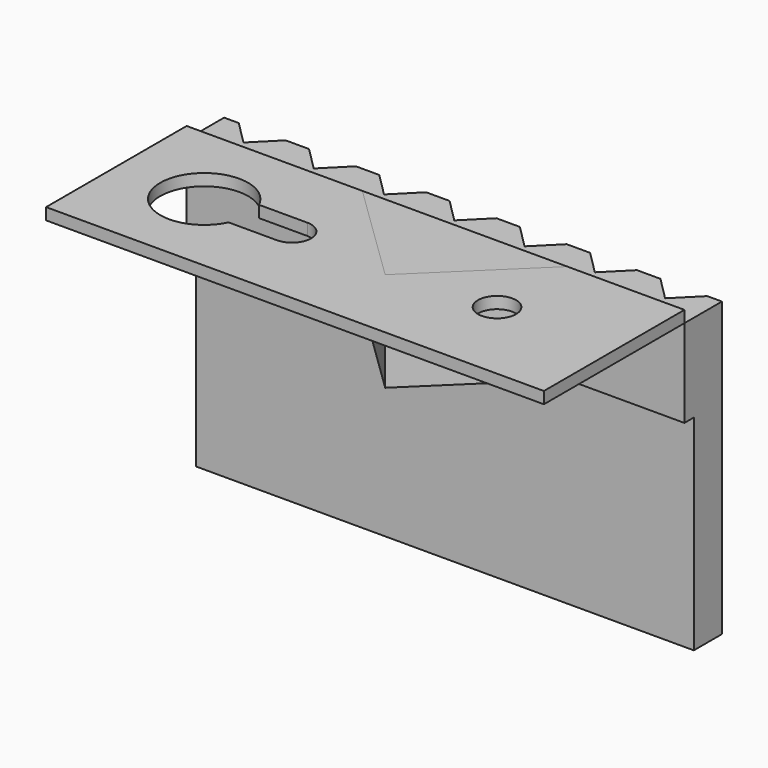
from build123d import *

# Parameters (mm, degrees)
F0_R      = 3.25
F1_DEPTH  = 2
F3_DEPTH  = 15
F4_DEPTH  = 2
F5_DEPTH  = 2
F7_W      = 85
F7_H      = 35
F6_W      = 85
F6_H      = 15
F8_DEPTH  = 2
F10_DEPTH = 50


with BuildPart() as f1:
    # F0 (on Top) → F1 (new body)
    with BuildSketch(Plane.XY):
        Polygon((-12.5, 15), (-42.5, 15), (-42.5, -15), (42.5, -15), (42.5, 15), (22.5, 15), (5, -2), align=None)
        with BuildLine():
            ThreePointArc((-20.7407470827, -3.25), (-35, 0), (-20.7407470827, 3.25))
            Line((-20.7407470827, 3.25), (-12.5, 3.25))
            ThreePointArc((-12.5, 3.25), (-9.25, 0), (-12.5, -3.25))
            Line((-12.5, -3.25), (-20.7407470827, -3.25))
        make_face(mode=Mode.SUBTRACT)
        with Locations((22.5, 0)):
            Circle(F0_R, mode=Mode.SUBTRACT)
    extrude(amount=F1_DEPTH)

    # F0 (on Top) → F3 (join)
    with BuildSketch(Plane.XY):
        Polygon((22.5, 15), (-12.5, 15), (5, -2), align=None)
    extrude(amount=-F3_DEPTH)

    # F2 (on face) → F4 (join)
    with BuildSketch(Plane(origin=(0, 15, 0), x_dir=(-1, 0, 0), z_dir=(0, 1, 0))):
        Polygon((42.5, -15), (42.5, 0), (-22.5, 0), (-42.5, 0), (-42.5, -15), align=None)
    extrude(amount=F4_DEPTH)

    # F7 (on face) + F6 (on face) → F8 (join)
    with BuildSketch(Plane(origin=(0, 17, 0), x_dir=(-1, 0, 0), z_dir=(0, 1, 0))):
        with Locations((0, -32.5)):
            Rectangle(F7_W, F7_H)
    with BuildSketch(Plane(origin=(0, 17, 0), x_dir=(-1, 0, 0), z_dir=(0, 1, 0))):
        with Locations((0, -7.5)):
            Rectangle(F6_W, F6_H)
    extrude(amount=F8_DEPTH)

    # F9 (on face) → F10 (join)
    with BuildSketch(Plane.XY):
        Polygon((-42.5, 19), (-36, 19), (-40, 23), (-42.5, 23), align=None)
        Polygon((-36, 19), (-24, 19), (-28, 23), (-32, 23), align=None)
        Polygon((-24, 19), (-12, 19), (-16, 23), (-20, 23), align=None)
        Polygon((-12, 19), (0, 19), (-4, 23), (-8, 23), align=None)
        Polygon((4, 23), (0, 19), (12, 19), (8, 23), align=None)
        Polygon((16, 23), (12, 19), (24, 19), (20, 23), align=None)
        Polygon((28, 23), (24, 19), (36, 19), (32, 23), align=None)
        Polygon((40, 23), (36, 19), (42.5, 19), (42.5, 23), align=None)
    extrude(amount=-F10_DEPTH)


with BuildPart() as f5:
    # F0 (on Top) → F5 (new body)
    with BuildSketch(Plane.XY):
        Polygon((22.5, 15), (-12.5, 15), (5, -2), align=None)
    extrude(amount=F5_DEPTH)


with BuildPart() as f11_1:
    # F11: copy of F5
    add(f5.part)


solid = Compound([f1.part, f5.part, f11_1.part])
